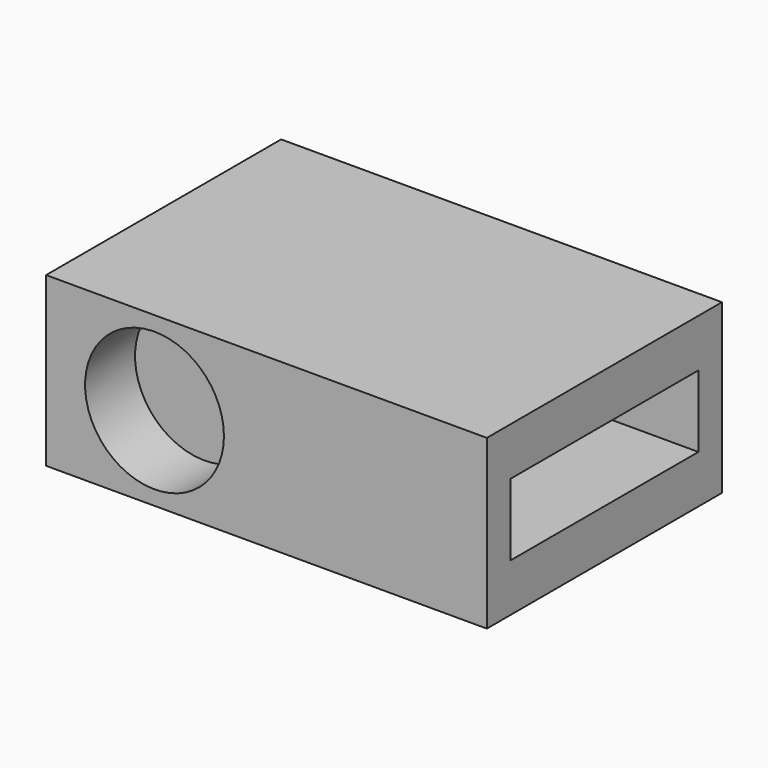
from build123d import *

# Parameters (mm, degrees)
F0_W     = 30
F0_H     = 20
F1_DEPTH = 5.715
F2_W     = 16
F2_H     = 4.89
F3_DEPTH = 15.24
F4_R     = 4.625
F5_DEPTH = 4
F6_R     = 4.725
F6_R_2   = 4.625
F7_DEPTH = 4.25


with BuildPart() as f1:
    # F0 (on Top) → F1 (new body, symmetric)
    with BuildSketch(Plane.XY):
        Rectangle(F0_W, F0_H)
    extrude(amount=F1_DEPTH, both=True)

    # F2 (on face) → F3 (cut)
    with BuildSketch(Plane.YZ.offset(15)):
        Rectangle(F2_W, F2_H)
    extrude(amount=-F3_DEPTH, mode=Mode.SUBTRACT)

    # F4 (on face) → F5 (cut)
    with BuildSketch(Plane(origin=(0, 10, 0), x_dir=(-1, 0, 0), z_dir=(0, 1, 0))):
        with Locations((7.62, 0)):
            Circle(F4_R)
    extrude(amount=-F5_DEPTH, mode=Mode.SUBTRACT)

    # F6 (on face) → F7 (cut)
    with BuildSketch(Plane.XZ.offset(10)):
        with Locations((-7.62, 0)):
            Circle(F6_R)
        with Locations((-7.62, 0)):
            Circle(F6_R_2, mode=Mode.SUBTRACT)
        with Locations((-7.62, 0)):
            Circle(F6_R_2)
    extrude(amount=-F7_DEPTH, mode=Mode.SUBTRACT)


solid = f1.part
